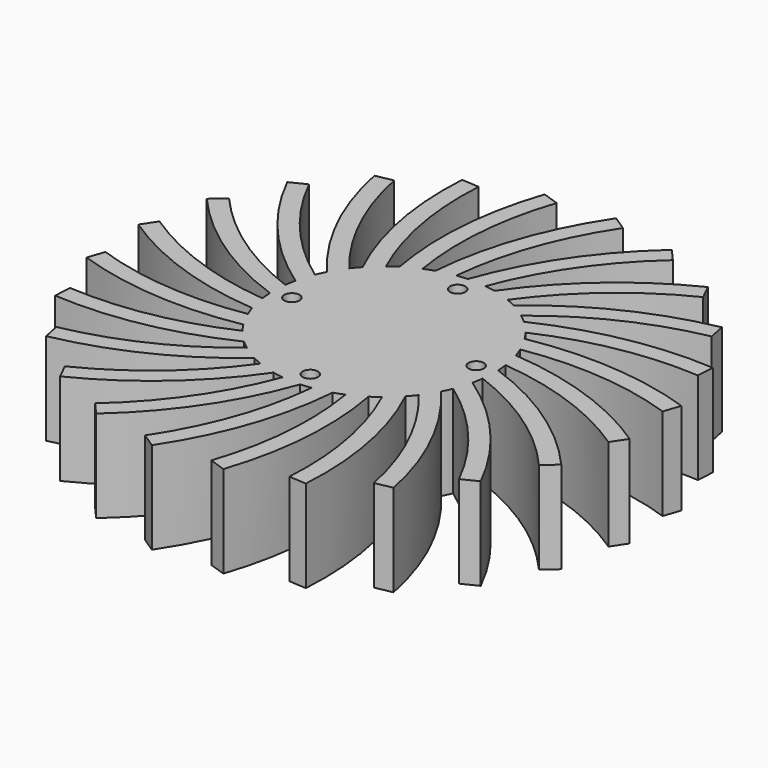
from build123d import *

# Parameters (mm, degrees)
COPYSKETCH001_R    = 18
PAD_DEPTH          = 15
PAD001_DEPTH       = 15
POLARPATTERN_COUNT = 24
SKETCH_R           = 1.25
POCKET_DEPTH       = 15


with BuildPart() as part:
    # CopySketch001 → Pad (new body)
    with BuildSketch(Plane.XY):
        Circle(COPYSKETCH001_R)
    extrude(amount=PAD_DEPTH)

    # Sketch001 (on Face3 of Pad) → Pad001 (join)
    with BuildSketch(Plane.XY.offset(15)):
        with BuildLine():
            ThreePointArc((16.375899, 38.346054), (7.775164, 28.601805), (1.916739, 17))
            Line((-1.083261, 17), (1.916739, 17))
            ThreePointArc((14.505004, 40.479684), (5.147213, 29.777962), (-1.083261, 17))
            Line((14.505004, 40.479684), (16.375899, 38.346054))
        make_face()
    pad001 = extrude(amount=-PAD001_DEPTH)

    # PolarPattern: Pad001 ×24 about axis
    polarpattern_axis = Axis((0, 0, 0), (0, 0, 1))
    for i in range(1, POLARPATTERN_COUNT):
        add(pad001.rotate(polarpattern_axis, i * 360 / POLARPATTERN_COUNT))

    # Sketch (on Face57 of PolarPattern) → Pocket (cut)
    with BuildSketch(Plane.XY.offset(15)):
        with Locations((0, 15)):
            Circle(SKETCH_R)
        with Locations((-15, 0)):
            Circle(SKETCH_R)
        with Locations((0, -15)):
            Circle(SKETCH_R)
        with Locations((15, 0)):
            Circle(SKETCH_R)
    extrude(amount=-POCKET_DEPTH, mode=Mode.SUBTRACT)


solid = part.part
